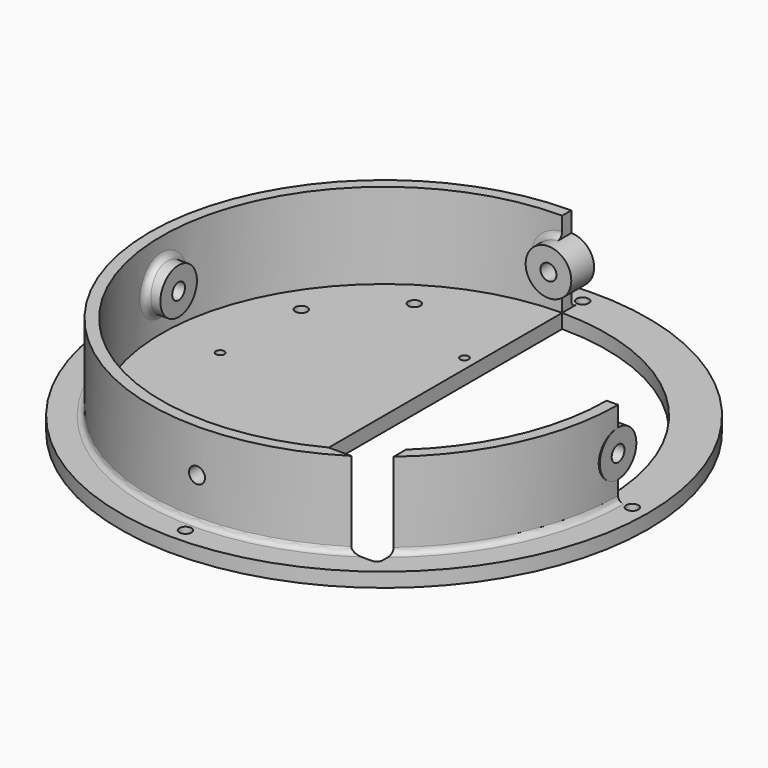
from build123d import *

# Parameters (mm, degrees)
BOX019_W          = 40
BOX019_H          = 21
BOX019_DEPTH      = 40
CYLINDER141_R     = 2.8
CYLINDER141_DEPTH = 300
CYLINDER142_R     = 2.8
CYLINDER142_DEPTH = 300
CYLINDER144_R     = 8
CYLINDER144_DEPTH = 10
CYLINDER145_R     = 8
CYLINDER145_DEPTH = 10
CYLINDER146_R     = 8
CYLINDER146_DEPTH = 10
CYLINDER143_R     = 8
CYLINDER143_DEPTH = 10
SKETCH047_R       = 2.125
EXTRUDE029_DEPTH  = 20
CYLINDER115_W     = 78
CYLINDER115_H     = 30
CYLINDER115_ANGLE = 270
CYLINDER114_W     = 82
CYLINDER114_H     = 30
CYLINDER114_ANGLE = 270
SKETCH030_R       = 92.5
SKETCH030_R_2     = 2.125
SKETCH030_R_3     = 1.5
EXTRUDE012_DEPTH  = 5
FILLET014_R       = 2
FILLET015_R       = 2
FILLET016_R       = 2


with BuildPart() as cube011:
    # Box019 → Box019 (new body)
    with BuildSketch(Plane(origin=(13.25, -219.25, -65), x_dir=(1, 0, 0), z_dir=(0, 0, 1))):
        with Locations((20, 10.5)):
            Rectangle(BOX019_W, BOX019_H)
    extrude(amount=BOX019_DEPTH)


with BuildPart() as cylinder141:
    # Cylinder141 → Cylinder141 (new body)
    with BuildSketch(Plane(origin=(0, 0, 90), x_dir=(1, 0, 0), z_dir=(0, -1, 0))):
        Circle(CYLINDER141_R)
    extrude(amount=CYLINDER141_DEPTH)


with BuildPart() as m4heatsetcuts003:
    # Cylinder142 → Cylinder142 (new body)
    with BuildSketch(Plane(origin=(-150, -150, 90), x_dir=(0, 1, 0), z_dir=(1, 0, 0))):
        Circle(CYLINDER142_R)
    extrude(amount=CYLINDER142_DEPTH)

    # Fusion089: union Cylinder141
    add(cylinder141.part)


with BuildPart() as m4heatsetcuts003_1:
    # Fusion089 placement: moved
    add(m4heatsetcuts003.part.moved(Location((0, 0, -130))))


with BuildPart() as heatsetholds001:
    # Cylinder144 → Cylinder144 (new body)
    with BuildSketch(Plane(origin=(0, -221, -40), x_dir=(-1, 0, 0), z_dir=(0, -1, 0))):
        Circle(CYLINDER144_R)
    extrude(amount=CYLINDER144_DEPTH)


with BuildPart() as heatsetholds002:
    # Cylinder145 → Cylinder145 (new body)
    with BuildSketch(Plane(origin=(72, -150, -40), x_dir=(0, -1, 0), z_dir=(1, 0, 0))):
        Circle(CYLINDER145_R)
    extrude(amount=CYLINDER145_DEPTH)


with BuildPart() as heatsetholds003:
    # Cylinder146 → Cylinder146 (new body)
    with BuildSketch(Plane(origin=(-72, -150, -40), x_dir=(0, 1, 0), z_dir=(-1, 0, 0))):
        Circle(CYLINDER146_R)
    extrude(amount=CYLINDER146_DEPTH)


with BuildPart() as m4heatsetholds:
    # Cylinder143 → Cylinder143 (new body)
    with BuildSketch(Plane(origin=(0, -78, -40), x_dir=(1, 0, 0), z_dir=(0, 1, 0))):
        Circle(CYLINDER143_R)
    extrude(amount=CYLINDER143_DEPTH)

    # Fusion090: union heatSetHolds001, heatSetHolds002, heatSetHolds003
    add(heatsetholds001.part)
    add(heatsetholds002.part)
    add(heatsetholds003.part)


with BuildPart() as m4vercuts001:
    # Sketch047 → Extrude029 (new body)
    with BuildSketch(Plane.XY):
        with Locations((0, -63)):
            Circle(SKETCH047_R)
        with Locations((87, -150)):
            Circle(SKETCH047_R)
        with Locations((0, -237)):
            Circle(SKETCH047_R)
        with Locations((-87, -150)):
            Circle(SKETCH047_R)
    extrude(amount=EXTRUDE029_DEPTH)


with BuildPart() as m4vercuts001_1:
    # Extrude029 placement: moved
    add(m4vercuts001.part.moved(Location((0, 0, -65.5))))


with BuildPart() as cylinder115:
    # Cylinder115 → Cylinder115 (revolve)
    with BuildSketch(Plane(origin=(0, -150, 0), x_dir=(0, 1, 0), z_dir=(1, 0, 0))):
        with Locations((39, 15)):
            Rectangle(CYLINDER115_W, CYLINDER115_H)
    revolve(axis=Axis((0, -150, 0), (0, 0, 1)), revolution_arc=CYLINDER115_ANGLE)


with BuildPart() as cut028:
    # Cylinder114 → Cylinder114 (revolve)
    with BuildSketch(Plane(origin=(0, -150, 0), x_dir=(0, 1, 0), z_dir=(1, 0, 0))):
        with Locations((41, 15)):
            Rectangle(CYLINDER114_W, CYLINDER114_H)
    revolve(axis=Axis((0, -150, 0), (0, 0, 1)), revolution_arc=CYLINDER114_ANGLE)

    # Cut028: cut Cylinder115
    add(cylinder115.part, mode=Mode.SUBTRACT)


with BuildPart() as cut028_1:
    # Cut028 placement: moved
    add(cut028.part.moved(Location((0, 0, -55))))


with BuildPart() as level3s003:
    # Sketch030 → Extrude012 (new body)
    with BuildSketch(Plane.XY):
        with Locations((0, -150)):
            Circle(SKETCH030_R)
        with Locations((-57, -115)):
            Circle(SKETCH030_R_2, mode=Mode.SUBTRACT)
        with Locations((-57, -185)):
            Circle(SKETCH030_R_2, mode=Mode.SUBTRACT)
        with Locations((-35, -207)):
            Circle(SKETCH030_R_2, mode=Mode.SUBTRACT)
        with Locations((-35, -93)):
            Circle(SKETCH030_R_2, mode=Mode.SUBTRACT)
        with Locations((-4.2, -109.55)):
            Circle(SKETCH030_R_3, mode=Mode.SUBTRACT)
        with Locations((-58.33, -148.9)):
            Circle(SKETCH030_R_3, mode=Mode.SUBTRACT)
        with Locations((-4.2, -180.9)):
            Circle(SKETCH030_R_3, mode=Mode.SUBTRACT)
        with BuildLine():
            ThreePointArc((0, -228), (78, -150), (0, -72))
            Line((0, -72), (0, -228))
        make_face(mode=Mode.SUBTRACT)
    extrude(amount=EXTRUDE012_DEPTH)


with BuildPart() as level3s003_1:
    # Extrude012 placement: moved
    add(level3s003.part.moved(Location((0, 0, -60))))

    # Fusion067: union Cut028
    add(cut028_1.part)

    # Cut043: cut m4VerCuts001
    add(m4vercuts001_1.part, mode=Mode.SUBTRACT)

    # Fusion091: union m4HeatSetHolds
    add(m4heatsetholds.part)

    # Cut045: cut m4HeatSetCuts003
    add(m4heatsetcuts003_1.part, mode=Mode.SUBTRACT)

    # Fillet014
    fillet014_edges = [level3s003_1.edges().sort_by_distance(p)[0] for p in [
        (-57.982756, -207.982756, -55),
    ]]
    fillet(fillet014_edges, radius=FILLET014_R)

    # Fillet015
    fillet015_edges = [level3s003_1.edges().sort_by_distance(p)[0] for p in [
        (-8, -72.411341, -40),
        (77.794601, -155.656861, -34.343152),
        (8, -227.588659, -40),
        (-77.588659, -158, -40),
    ]]
    fillet(fillet015_edges, radius=FILLET015_R)

    # Cut088: cut Cube011
    add(cube011.part, mode=Mode.SUBTRACT)

    # Fillet016
    fillet016_edges = [level3s003_1.edges().sort_by_distance(p)[0] for p in [
        (53.25, -219.25, -57.5),
    ]]
    fillet(fillet016_edges, radius=FILLET016_R)


solid = level3s003_1.part
